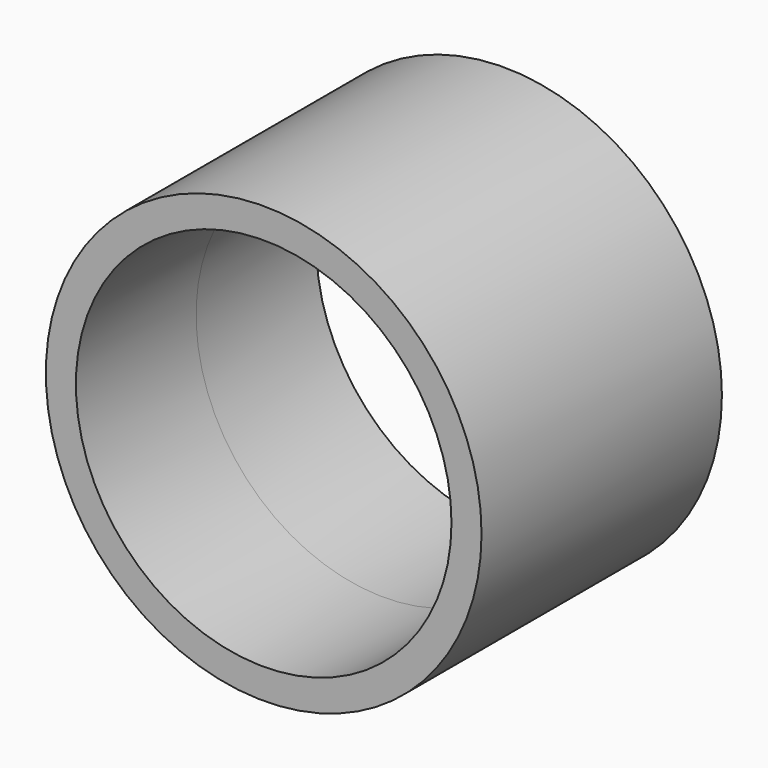
from build123d import *

# Parameters (mm, degrees)
F0_R     = 72.5
F0_R_2   = 62.5
F1_DEPTH = 50


with BuildPart() as f1:
    # F0 (on Front) → F1 (new body)
    with BuildSketch(Plane.XZ):
        Circle(F0_R)
        Circle(F0_R_2, mode=Mode.SUBTRACT)
    extrude(amount=F1_DEPTH)

    # F2: F1 across plane


with BuildPart() as f1_1:
    add(f1.part)
    add(f1.part.mirror(Plane.XZ))


solid = f1_1.part
